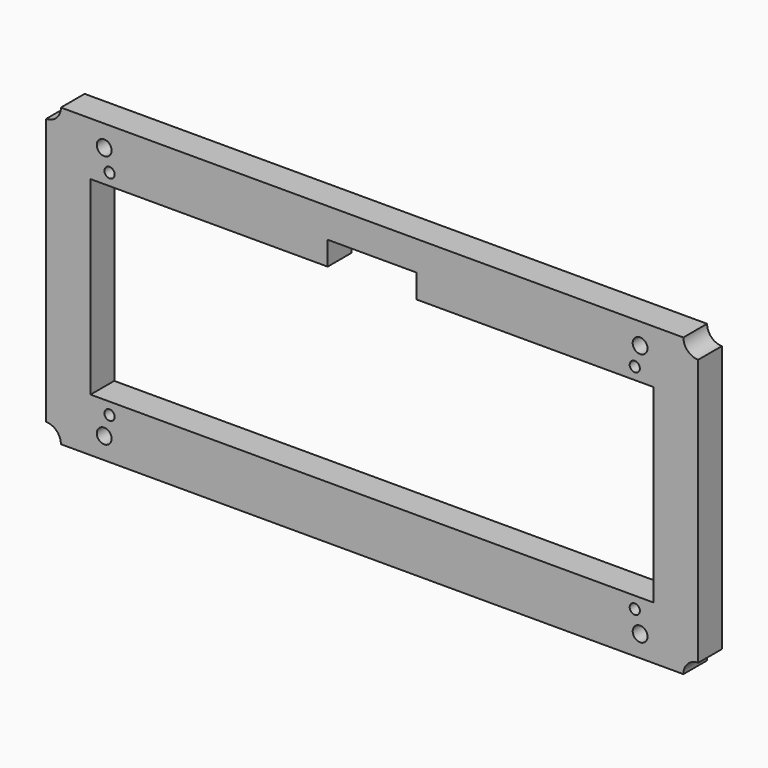
from build123d import *

# Parameters (mm, degrees)
F0_R     = 1.0922
F0_R_2   = 1.5875
F1_DEPTH = 6.35


with BuildPart() as f1:
    # F0 (on Front) → F1 (new body)
    with BuildSketch(Plane.XZ):
        with BuildLine():
            Line((66.675, 31.75), (-66.675, 31.75))
            ThreePointArc((-66.675, 31.75), (-67.604936, 29.504936), (-69.85, 28.575))
            Line((-69.85, 28.575), (-69.85, 0))
            Line((-69.85, 0), (-60.325, 0))
            Line((-60.325, 0), (-60.325, 20.32))
            Line((-60.325, 20.32), (-9.525, 20.32))
            Line((-9.525, 20.32), (-9.525, 25.4))
            Line((-9.525, 25.4), (9.525, 25.4))
            Line((9.525, 25.4), (9.525, 20.32))
            Line((9.525, 20.32), (60.325, 20.32))
            Line((60.325, 20.32), (60.325, 0))
            Line((60.325, 0), (69.85, 0))
            Line((69.85, 0), (69.85, 28.575))
            ThreePointArc((69.85, 28.575), (67.604936, 29.504936), (66.675, 31.75))
        make_face()
        with Locations((-56.261, 22.86)):
            Circle(F0_R, mode=Mode.SUBTRACT)
        with Locations((-57.404, 27.178)):
            Circle(F0_R_2, mode=Mode.SUBTRACT)
        with Locations((56.261, 22.86)):
            Circle(F0_R, mode=Mode.SUBTRACT)
        with Locations((57.404, 27.178)):
            Circle(F0_R_2, mode=Mode.SUBTRACT)
        with BuildLine():
            Line((-60.325, 0), (-69.85, 0))
            Line((-69.85, 0), (-69.85, -28.575))
            ThreePointArc((-69.85, -28.575), (-67.604936, -29.504936), (-66.675, -31.75))
            Line((-66.675, -31.75), (66.675, -31.75))
            ThreePointArc((66.675, -31.75), (67.604936, -29.504936), (69.85, -28.575))
            Line((69.85, -28.575), (69.85, 0))
            Line((69.85, 0), (60.325, 0))
            Line((60.325, 0), (60.325, -20.32))
            Line((60.325, -20.32), (-60.325, -20.32))
            Line((-60.325, -20.32), (-60.325, 0))
        make_face()
        with Locations((-57.404, -27.178)):
            Circle(F0_R_2, mode=Mode.SUBTRACT)
        with Locations((-56.261, -22.86)):
            Circle(F0_R, mode=Mode.SUBTRACT)
        with Locations((57.404, -27.178)):
            Circle(F0_R_2, mode=Mode.SUBTRACT)
        with Locations((56.261, -22.86)):
            Circle(F0_R, mode=Mode.SUBTRACT)
    extrude(amount=F1_DEPTH)


solid = f1.part
